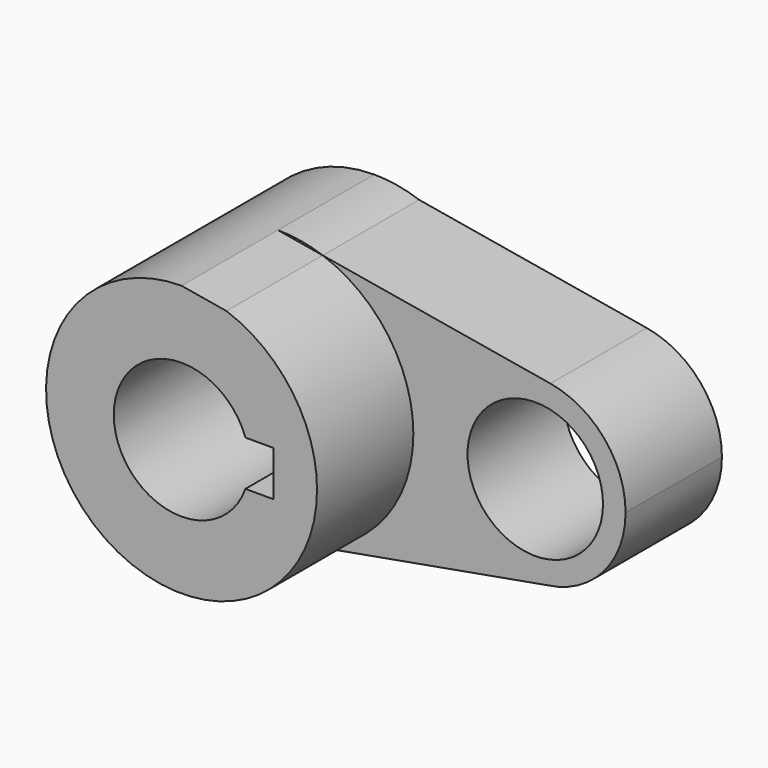
from build123d import *

# Parameters (mm, degrees)
F0_R     = 14.2875
F1_DEPTH = 25.4
F2_DEPTH = 50.8


with BuildPart() as f1:
    # F0 (on Front) → F1 (new body)
    with BuildSketch(Plane.XZ):
        with BuildLine():
            ThreePointArc((5.0235075245, -28.1299661776), (21.9097849432, -18.3437168737), (28.575, 0))
            ThreePointArc((28.575, 0), (23.3127267057, 16.5241459249), (9.4640709678, 26.9622325803))
            Line((9.4640709678, 26.9622325803), (0, 28.575))
            ThreePointArc((0, 28.575), (-28.4635241012, -2.5215909141), (5.0235075245, -28.1299661776))
        make_face()
        with BuildLine():
            ThreePointArc((-13.4703841816, 4.7625), (0, 14.2875), (13.4703841816, 4.7625))
            Line((13.4703841816, 4.7625), (19.3582428957, 4.7625))
            Line((19.3582428957, 4.7625), (19.3582428957, -4.7625))
            Line((19.3582428957, -4.7625), (13.4703841816, -4.7625))
            ThreePointArc((13.4703841816, -4.7625), (0, -14.2875), (-13.4703841816, -4.7625))
            Line((-13.4703841816, -4.7625), (-18.7417571043, -4.7625))
            Line((-18.7417571043, -4.7625), (-18.7417571043, 4.7625))
            Line((-18.7417571043, 4.7625), (-13.4703841816, 4.7625))
        make_face(mode=Mode.SUBTRACT)
        with BuildLine():
            ThreePointArc((9.4640709678, 26.9622325803), (23.3127267057, 16.5241459249), (28.575, 0))
            ThreePointArc((28.575, 0), (21.9097849432, -18.3437168737), (5.0235075245, -28.1299661776))
            Line((5.0235075245, -28.1299661776), (56.8131846517, -18.881257763))
            ThreePointArc((56.8131846517, -18.881257763), (35.2362588947, 0.3389697117), (57.4834105655, 18.7792818522))
            Line((57.4834105655, 18.7792818522), (9.4640709678, 26.9622325803))
        make_face()
        with BuildLine():
            Line((0, 28.575), (9.4640709678, 26.9622325803))
            ThreePointArc((9.4640709678, 26.9622325803), (4.8002515047, 28.1689227783), (0, 28.575))
        make_face()
        with BuildLine():
            ThreePointArc((73.3332428957, 0), (68.84115645, 12.2869708612), (57.4834105655, 18.7792818522))
            ThreePointArc((57.4834105655, 18.7792818522), (35.2362588947, 0.3389697117), (56.8131846517, -18.881257763))
            ThreePointArc((56.8131846517, -18.881257763), (68.6202211417, -12.5440645237), (73.3332428957, 0))
        make_face()
        with Locations((54.2832428957, 0)):
            Circle(F0_R, mode=Mode.SUBTRACT)
    extrude(amount=F1_DEPTH)

    # F0 (on Front) → F2 (join)
    with BuildSketch(Plane.XZ):
        with BuildLine():
            ThreePointArc((5.0235075245, -28.1299661776), (21.9097849432, -18.3437168737), (28.575, 0))
            ThreePointArc((28.575, 0), (23.3127267057, 16.5241459249), (9.4640709678, 26.9622325803))
            Line((9.4640709678, 26.9622325803), (0, 28.575))
            ThreePointArc((0, 28.575), (-28.4635241012, -2.5215909141), (5.0235075245, -28.1299661776))
        make_face()
        with BuildLine():
            ThreePointArc((-13.4703841816, 4.7625), (0, 14.2875), (13.4703841816, 4.7625))
            Line((13.4703841816, 4.7625), (19.3582428957, 4.7625))
            Line((19.3582428957, 4.7625), (19.3582428957, -4.7625))
            Line((19.3582428957, -4.7625), (13.4703841816, -4.7625))
            ThreePointArc((13.4703841816, -4.7625), (0, -14.2875), (-13.4703841816, -4.7625))
            Line((-13.4703841816, -4.7625), (-18.7417571043, -4.7625))
            Line((-18.7417571043, -4.7625), (-18.7417571043, 4.7625))
            Line((-18.7417571043, 4.7625), (-13.4703841816, 4.7625))
        make_face(mode=Mode.SUBTRACT)
        with BuildLine():
            ThreePointArc((-13.4703841816, -4.7625), (-14.2875, 0), (-13.4703841816, 4.7625))
            Line((-13.4703841816, 4.7625), (-18.7417571043, 4.7625))
            Line((-18.7417571043, 4.7625), (-18.7417571043, -4.7625))
            Line((-18.7417571043, -4.7625), (-13.4703841816, -4.7625))
        make_face()
    extrude(amount=F2_DEPTH)


solid = f1.part
